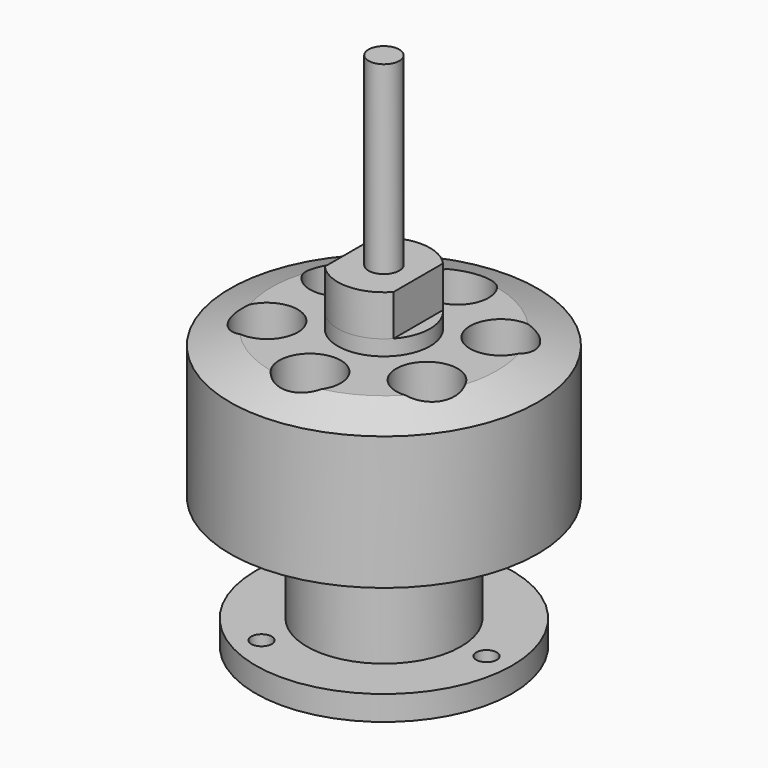
from build123d import *

# Parameters (mm, degrees)
F0_R      = 15
F1_DEPTH  = 12
F4_R      = 3
F5_DEPTH  = 12
F6_R      = 4.5
F7_DEPTH  = 1.5
F9_DEPTH  = 4
F10_R     = 1.5
F11_DEPTH = 18
F12_R     = 7.5
F13_DEPTH = 10.4
F14_R     = 12.5
F15_DEPTH = 2.4
F16_R     = 5.5
F16_R_2   = 1
F17_DEPTH = 2.4


with BuildPart() as f1:
    # F0 (on Top) → F1 (new body)
    with BuildSketch(Plane.XY):
        Circle(F0_R)
    extrude(amount=F1_DEPTH)

    # F2 (on Front) → F3 (revolve)
    with BuildSketch(Plane.XZ):
        Polygon((11, 14.4), (0, 14.4), (0, 12), (15, 12), (15, 13), align=None)
    revolve(axis=Axis((0, 0, 13.2), (0, 0, -1)))

    # F4 (on face) → F5 (cut)
    with BuildSketch(Plane.XY.offset(14.4)):
        with Locations((0, 9)):
            Circle(F4_R)
        with Locations((-7.794229, 4.5)):
            Circle(F4_R)
        with Locations((-7.794229, -4.5)):
            Circle(F4_R)
        with Locations((0, -9)):
            Circle(F4_R)
        with Locations((7.794229, -4.5)):
            Circle(F4_R)
        with Locations((7.794229, 4.5)):
            Circle(F4_R)
    extrude(amount=-F5_DEPTH, mode=Mode.SUBTRACT)

    # F6 (on face) → F7 (join)
    with BuildSketch(Plane.XY.offset(14.4)):
        Circle(F6_R)
    extrude(amount=F7_DEPTH)

    # F8 (on face) → F9 (join)
    with BuildSketch(Plane.XY.offset(15.9)):
        with BuildLine():
            Line((3.35, -3.00458), (3.35, 3.00458))
            ThreePointArc((3.35, 3.00458), (0, 4.5), (-3.35, 3.00458))
            Line((-3.35, 3.00458), (-3.35, -3.00458))
            ThreePointArc((-3.35, -3.00458), (0, -4.5), (3.35, -3.00458))
        make_face()
    extrude(amount=F9_DEPTH)

    # F10 (on face) → F11 (join)
    with BuildSketch(Plane.XY.offset(19.9)):
        Circle(F10_R)
    extrude(amount=F11_DEPTH)

    # F12 (on face) → F13 (join)
    with BuildSketch(Plane(origin=(0, 0, 0), x_dir=(1, 0, 0), z_dir=(0, 0, -1))):
        Circle(F12_R)
    extrude(amount=F13_DEPTH)

    # F14 (on face) → F15 (join)
    with BuildSketch(Plane(origin=(0, 0, -10.4), x_dir=(1, 0, 0), z_dir=(0, 0, -1))):
        Circle(F14_R)
    extrude(amount=F15_DEPTH)

    # F16 (on face) → F17 (cut)
    with BuildSketch(Plane(origin=(0, 0, -12.8), x_dir=(1, 0, 0), z_dir=(0, 0, -1))):
        Circle(F16_R)
        with Locations((10, 0)):
            Circle(F16_R_2)
        with Locations((-5, 8.660254)):
            Circle(F16_R_2)
        with Locations((-5, -8.660254)):
            Circle(F16_R_2)
    extrude(amount=-F17_DEPTH, mode=Mode.SUBTRACT)


solid = f1.part
